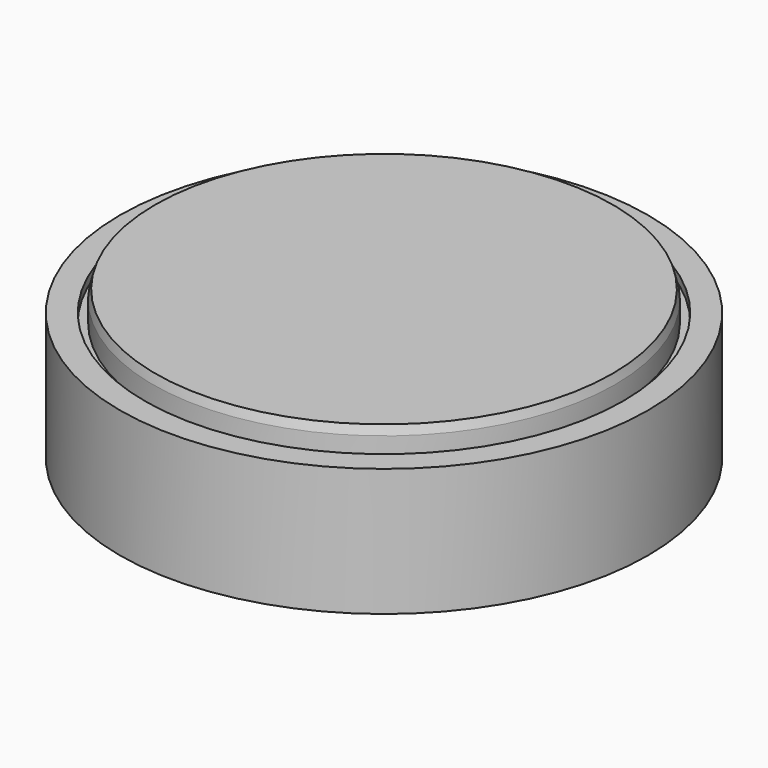
from build123d import *

# Parameters (mm, degrees)
F2_SIZE2 = 3
F2_SIZE  = 0.8038475773
F3_W     = 2.715
F3_H     = 3


with BuildPart() as f1:
    # F0 (on Front) → F1 (revolve)
    with BuildSketch(Plane.XZ):
        Polygon((77.785, 0), (0, 0), (0, -50), (88.9, -50), (88.9, -7), (77.785, -7), align=None)
    revolve(axis=Axis((0, 0, -25), (0, 0, 1)))

    # F2
    f2_edges = [f1.edges().sort_by_distance(p)[0] for p in [
        (-77.785, 0, 0),
    ]]
    f2_side = f1.faces().sort_by_distance((0, 0, 0))[0]
    chamfer(f2_edges, length=F2_SIZE, length2=F2_SIZE2, reference=f2_side)

    # F3 (on Front) → F4 (revolve, cut)
    with BuildSketch(Plane.XZ):
        with Locations((79.1425, -8.5)):
            Rectangle(F3_W, F3_H)
    revolve(axis=Axis((0, 0, -8.4670595825), (0, 0, 1)), mode=Mode.SUBTRACT)


solid = f1.part
